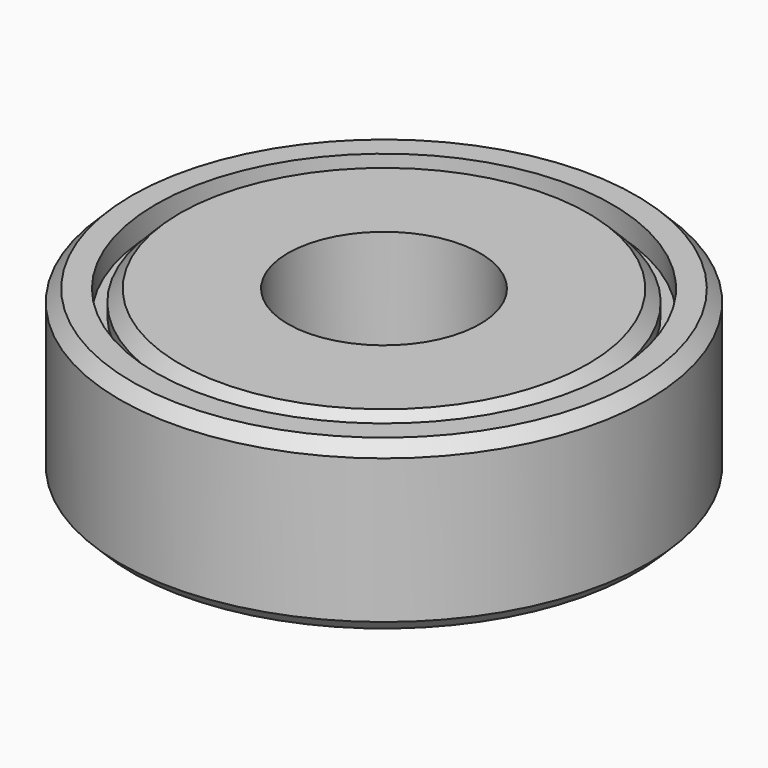
from build123d import *


with BuildPart() as f1:
    # F0 (on Front) → F1 (revolve)
    with BuildSketch(Plane.XZ):
        Polygon((-4, -3.5), (-4, 0), (-4, 3.5), (-8.5, 3.5), (-9, 3), (-9, 2.5), (-9.5, 2.5), (-9.5, 3.5), (-10.5, 3.5), (-11, 3), (-11, 0), (-11, -3), (-10.5, -3.5), (-9.5, -3.5), (-9.5, -2.5), (-9, -2.5), (-9, -3), (-8.5, -3.5), align=None)
    revolve(axis=Axis((0, 0, 1.343728), (0, 0, 1)))


solid = f1.part
